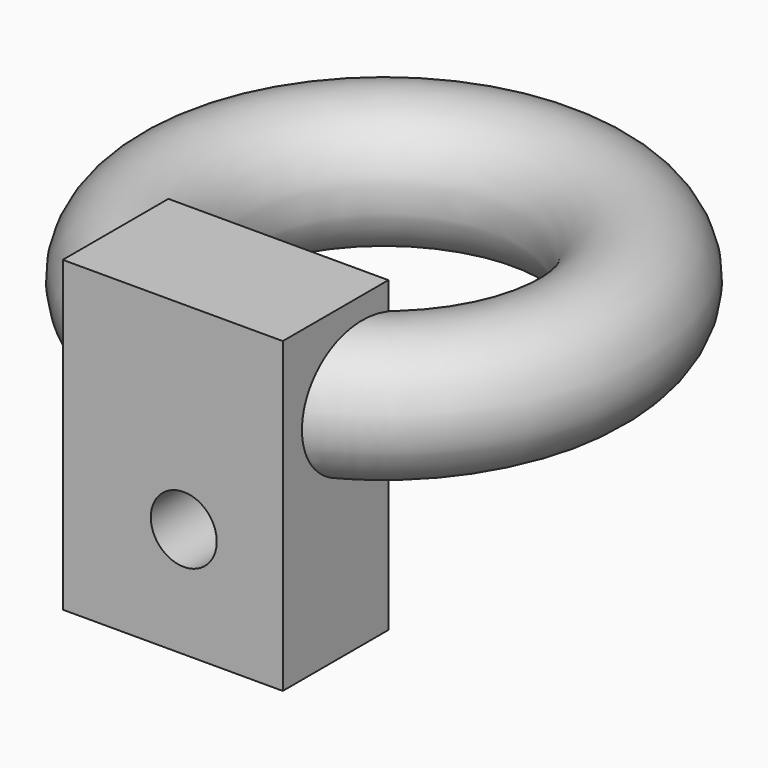
from build123d import *

# Parameters (mm, degrees)
F0_W     = 10
F0_H     = 14
F1_DEPTH = 6
F2_R     = 3
F4_R     = 1.5
F5_DEPTH = 6.001


with BuildPart() as f1:
    # F0 (on Front) → F1 (new body)
    with BuildSketch(Plane.XZ):
        Rectangle(F0_W, F0_H)
    extrude(amount=-F1_DEPTH)

    # F2 (on Right) → F3 (revolve)
    with BuildSketch(Plane.YZ):
        with Locations((3, 3)):
            Circle(F2_R)
    revolve(axis=Axis((0, 12, -0.227418), (0, 0, -1)))

    # F4 (on face) → F5 (cut, through all)
    with BuildSketch(Plane(origin=(0, 6, 0), x_dir=(-1, 0, 0), z_dir=(0, 1, 0))):
        with Locations((-0.5, -2)):
            Circle(F4_R)
    extrude(amount=-F5_DEPTH, mode=Mode.SUBTRACT)


solid = f1.part
